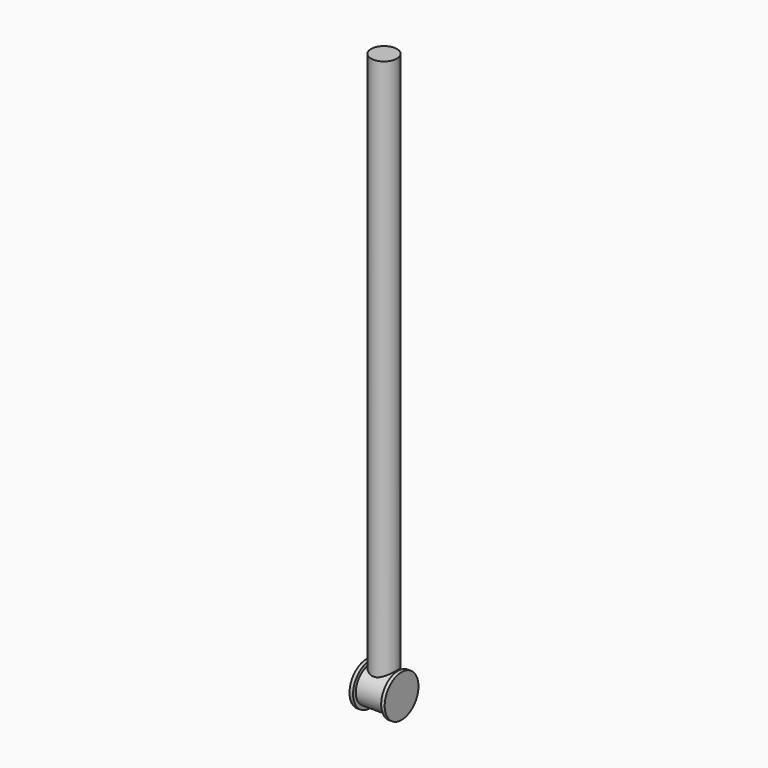
from build123d import *

# Parameters (mm, degrees)
F0_R     = 4.699
F1_DEPTH = 196.85
F2_R     = 7.62
F3_DEPTH = 6.35
F4_R     = 7.62
F4_R_2   = 6.35
F5_DEPTH = 5.08


with BuildPart() as f1:
    # F0 (on Top) → F1 (new body)
    with BuildSketch(Plane.XY):
        Circle(F0_R)
    extrude(amount=F1_DEPTH)

    # F2 (on Right) → F3 (join, symmetric)
    with BuildSketch(Plane.YZ):
        with Locations((0, -5.275038)):
            Circle(F2_R)
    extrude(amount=F3_DEPTH, both=True)

    # F4 (on Right) → F5 (cut, symmetric)
    with BuildSketch(Plane.YZ):
        with Locations((0, -5.275038)):
            Circle(F4_R)
        with Locations((0, -5.275038)):
            Circle(F4_R_2, mode=Mode.SUBTRACT)
    extrude(amount=F5_DEPTH, both=True, mode=Mode.SUBTRACT)


solid = f1.part
